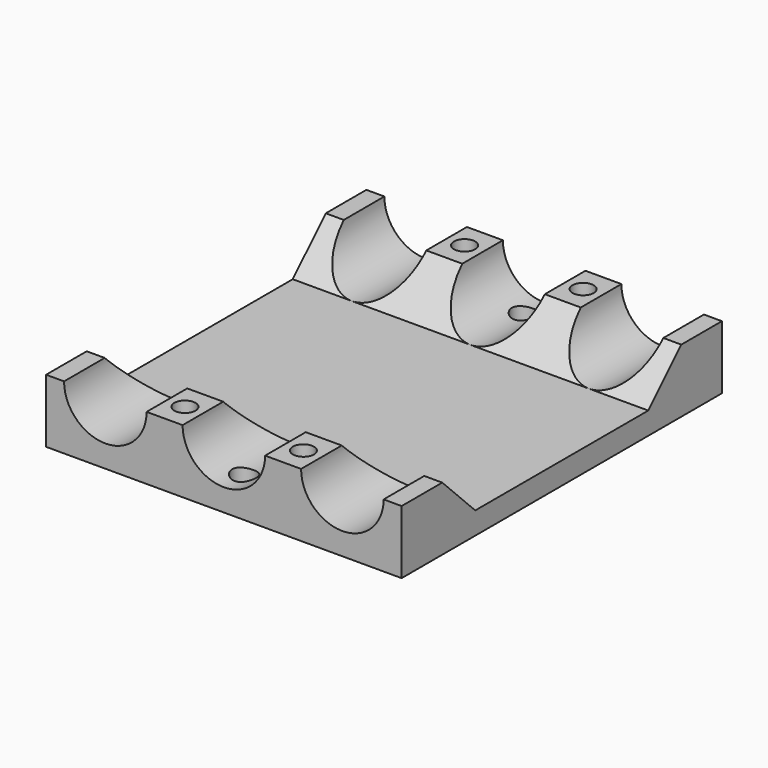
from build123d import *

# Parameters (mm, degrees)
SKETCH_W            = 84
SKETCH_H            = 94.6
PAD_DEPTH           = 15
SKETCH001_R         = 9.75
POCKET_DEPTH        = 94.601
LINEARPATTERN_COUNT = 3
LINEARPATTERN_PITCH = 28
HOLE_D              = 5
HOLE_DEPTH          = 25
HOLE_CSINK_D        = 11
HOLE_CSINK_ANGLE    = 90
SKETCH003_R         = 2.8
POCKET001_DEPTH     = 15.001
POCKET002_DEPTH     = 84.001


with BuildPart() as part:
    # Sketch → Pad (new body)
    with BuildSketch(Plane.XY):
        with Locations((42, 47.3)):
            Rectangle(SKETCH_W, SKETCH_H)
    extrude(amount=PAD_DEPTH)

    # Sketch001 (on DatumPlane) → Pocket (cut, through all)
    with BuildSketch(Plane.XZ):
        with Locations((14, 15)):
            Circle(SKETCH001_R)
    pocket = extrude(amount=-POCKET_DEPTH, mode=Mode.SUBTRACT)

    # LinearPattern: Pocket ×3
    with Locations(*[(i * LINEARPATTERN_PITCH, 0, 0) for i in range(1, LINEARPATTERN_COUNT)]):
        add(pocket, mode=Mode.SUBTRACT)

    # Hole
    with Locations(Plane(origin=(0, 0, 0), x_dir=(1, 0, 0), z_dir=(0, 0, -1))):
        with Locations((28, -6), (56, -6), (28, -88.6), (56, -88.6)):
            CounterSinkHole(HOLE_D / 2, HOLE_CSINK_D / 2, depth=HOLE_DEPTH, counter_sink_angle=HOLE_CSINK_ANGLE)

    # Sketch003 → Pocket001 (cut, through all)
    with BuildSketch(Plane.XY):
        with Locations((42, 88.6)):
            Circle(SKETCH003_R)
        with Locations((42, 6)):
            Circle(SKETCH003_R)
    extrude(amount=POCKET001_DEPTH, mode=Mode.SUBTRACT)

    # Sketch004 (on DatumPlane) → Pocket002 (cut, through all)
    with BuildSketch(Plane.YZ):
        Polygon((82.6, 15), (12, 15), (21.75, 5.25), (72.85, 5.25), align=None)
    extrude(amount=POCKET002_DEPTH, mode=Mode.SUBTRACT)


solid = part.part
